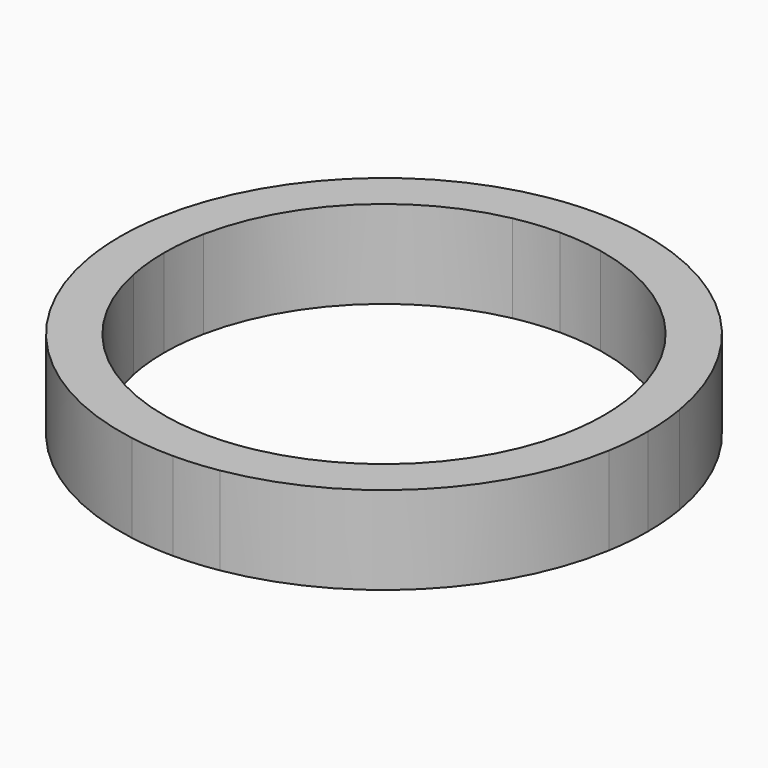
from build123d import *

# Parameters (mm, degrees)
F1_DEPTH = 25.4


with BuildPart() as f1:
    # F0 (on Top) → F1 (new body)
    with BuildSketch(Plane.XY):
        with BuildLine():
            Line((63.499014, 0), (76.2, 0))
            ThreePointArc((76.2, 0), (75.933086, 6.372321), (75.134213, 12.7))
            Line((75.134213, 12.7), (62.216033, 12.7))
            ThreePointArc((62.216033, 12.7), (63.177455, 6.38232), (63.499014, 0))
        make_face()
        with BuildLine():
            ThreePointArc((75.134213, -12.7), (75.933086, -6.372321), (76.2, 0))
            Line((76.2, 0), (63.499014, 0))
            ThreePointArc((63.499014, 0), (63.177455, -6.38232), (62.216033, -12.7))
            Line((62.216033, -12.7), (75.134213, -12.7))
        make_face()
        with BuildLine():
            Line((62.216033, 12.7), (75.134213, 12.7))
            ThreePointArc((75.134213, 12.7), (53.881537, 53.881537), (12.7, 75.134213))
            Line((12.7, 75.134213), (12.7, 62.216033))
            ThreePointArc((12.7, 62.216033), (44.900584, 44.900584), (62.216033, 12.7))
        make_face()
        with BuildLine():
            ThreePointArc((12.7, -75.134213), (53.881537, -53.881537), (75.134213, -12.7))
            Line((75.134213, -12.7), (62.216033, -12.7))
            ThreePointArc((62.216033, -12.7), (44.900584, -44.900584), (12.7, -62.216033))
            Line((12.7, -62.216033), (12.7, -75.134213))
        make_face()
        with BuildLine():
            Line((12.7, 62.216033), (12.7, 75.134213))
            ThreePointArc((12.7, 75.134213), (6.372321, 75.933086), (0, 76.2))
            Line((0, 76.2), (0, 63.499014))
            ThreePointArc((0, 63.499014), (6.38232, 63.177455), (12.7, 62.216033))
        make_face()
        with BuildLine():
            ThreePointArc((0, -76.2), (6.372321, -75.933086), (12.7, -75.134213))
            Line((12.7, -75.134213), (12.7, -62.216033))
            ThreePointArc((12.7, -62.216033), (6.38232, -63.177455), (0, -63.499014))
            Line((0, -63.499014), (0, -76.2))
        make_face()
        with BuildLine():
            Line((0, 63.499014), (0, 76.2))
            ThreePointArc((0, 76.2), (-6.372321, 75.933086), (-12.7, 75.134213))
            Line((-12.7, 75.134213), (-12.7, 62.216033))
            ThreePointArc((-12.7, 62.216033), (-6.38232, 63.177455), (0, 63.499014))
        make_face()
        with BuildLine():
            ThreePointArc((-12.7, -75.134213), (-6.372321, -75.933086), (0, -76.2))
            Line((0, -76.2), (0, -63.499014))
            ThreePointArc((0, -63.499014), (-6.38232, -63.177455), (-12.7, -62.216033))
            Line((-12.7, -62.216033), (-12.7, -75.134213))
        make_face()
        with BuildLine():
            Line((-12.7, 62.216033), (-12.7, 75.134213))
            ThreePointArc((-12.7, 75.134213), (-53.881537, 53.881537), (-75.134213, 12.7))
            Line((-75.134213, 12.7), (-62.216033, 12.7))
            ThreePointArc((-62.216033, 12.7), (-44.900584, 44.900584), (-12.7, 62.216033))
        make_face()
        with BuildLine():
            ThreePointArc((-75.134213, -12.7), (-53.881537, -53.881537), (-12.7, -75.134213))
            Line((-12.7, -75.134213), (-12.7, -62.216033))
            ThreePointArc((-12.7, -62.216033), (-44.900584, -44.900584), (-62.216033, -12.7))
            Line((-62.216033, -12.7), (-75.134213, -12.7))
        make_face()
        with BuildLine():
            Line((-62.216033, 12.7), (-75.134213, 12.7))
            ThreePointArc((-75.134213, 12.7), (-75.933086, 6.372321), (-76.2, 0))
            Line((-76.2, 0), (-63.499014, 0))
            ThreePointArc((-63.499014, 0), (-63.177455, 6.38232), (-62.216033, 12.7))
        make_face()
        with BuildLine():
            ThreePointArc((-76.2, 0), (-75.933086, -6.372321), (-75.134213, -12.7))
            Line((-75.134213, -12.7), (-62.216033, -12.7))
            ThreePointArc((-62.216033, -12.7), (-63.177455, -6.38232), (-63.499014, 0))
            Line((-63.499014, 0), (-76.2, 0))
        make_face()
    extrude(amount=F1_DEPTH)


solid = f1.part
